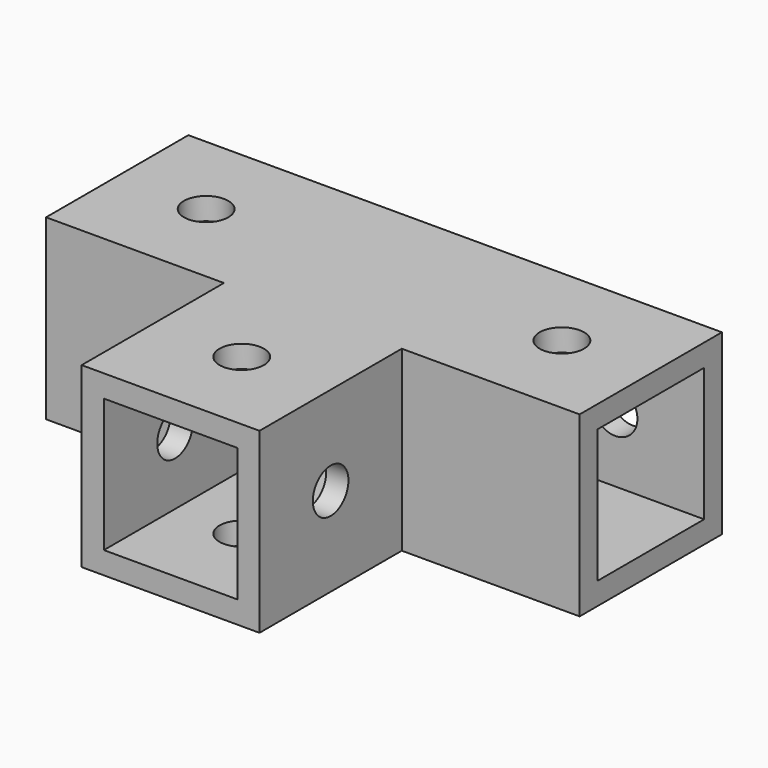
from build123d import *

# Parameters (mm, degrees)
F1_DEPTH = 20
F2_T     = -2.5
F3_R     = 2.5
F4_DEPTH = 20.001
F5_R     = 2.5
F6_DEPTH = 2.5
F7_R     = 2.5
F8_DEPTH = 40.001


with BuildPart() as f1:
    # F0 (on Top) → F1 (new body)
    with BuildSketch(Plane.XY):
        Polygon((30, 0), (-30, 0), (-30, -20), (-10, -20), (-10, -40), (10, -40), (10, -20), (30, -20), align=None)
    extrude(amount=-F1_DEPTH)

    # F2
    f2_openings = [f1.faces().sort_by_distance(p)[0] for p in [
        (30, -10, -10),
        (0, -40, -10),
        (-30, -10, -10),
    ]]
    offset(amount=F2_T, openings=f2_openings, kind=Kind.INTERSECTION)

    # F3 (on face) → F4 (cut, through all)
    with BuildSketch(Plane.XY):
        with Locations((-20, -10)):
            Circle(F3_R)
        with Locations((20, -10)):
            Circle(F3_R)
        with Locations((0, -30)):
            Circle(F3_R)
    extrude(amount=-F4_DEPTH, mode=Mode.SUBTRACT)

    # F5 (on face) → F6 (cut, through all)
    with BuildSketch(Plane(origin=(0, 0, 0), x_dir=(-1, 0, 0), z_dir=(0, 1, 0))):
        with Locations((-20, -10)):
            Circle(F5_R)
        with Locations((20, -10)):
            Circle(F5_R)
    extrude(amount=-F6_DEPTH, mode=Mode.SUBTRACT)

    # F7 (on face) → F8 (cut, through all)
    with BuildSketch(Plane.YZ.offset(10)):
        with Locations((-30, -10)):
            Circle(F7_R)
    extrude(amount=-F8_DEPTH, mode=Mode.SUBTRACT)


solid = f1.part
